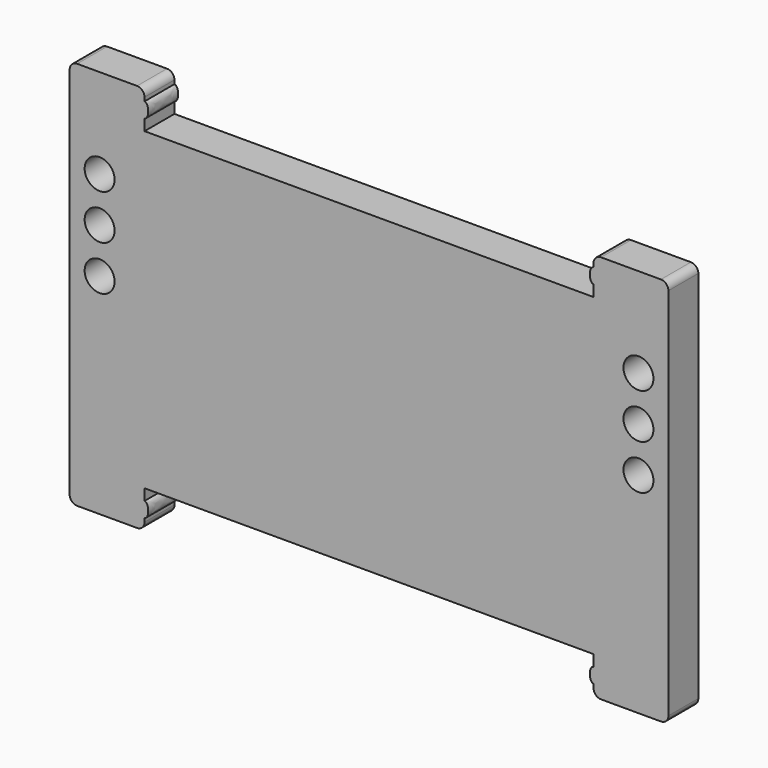
from build123d import *

# Parameters (mm, degrees)
F1_R     = 2
F2_DEPTH = 5
F3_R     = 1


with BuildPart() as f2:
    # F1 (on Front) → F2 (new body)
    with BuildSketch(Plane.XZ):
        Polygon((-37.1288130432, 37.2896080693), (-47.1288130432, 37.2896080693), (-47.1288130432, -4.7103919307), (-37.1288130432, -4.7103919307), (22.8711869568, -4.7103919307), (32.8711869568, -4.7103919307), (32.8711869568, 37.2896080693), (22.8711869568, 37.2896080693), align=None)
        with Locations((-43.1288130432, 18.2896080693)):
            Circle(F1_R, mode=Mode.SUBTRACT)
        with Locations((-43.1288130432, 24.2896080693)):
            Circle(F1_R, mode=Mode.SUBTRACT)
        with Locations((-43.1288130432, 30.2896080693)):
            Circle(F1_R, mode=Mode.SUBTRACT)
        with Locations((28.8711869568, 18.2896080693)):
            Circle(F1_R, mode=Mode.SUBTRACT)
        with Locations((28.8711869568, 24.2896080693)):
            Circle(F1_R, mode=Mode.SUBTRACT)
        with Locations((28.8711869568, 30.2896080693)):
            Circle(F1_R, mode=Mode.SUBTRACT)
        with BuildLine():
            Line((-47.1288130432, 42.2896080693), (-47.1288130432, 37.2896080693))
            Line((-47.1288130432, 37.2896080693), (-37.1288130432, 37.2896080693))
            Line((-37.1288130432, 37.2896080693), (-37.1288130432, 38.7896080693))
            add(Edge.make_bspline(
                [(-37.1288130432, 38.7896080693), (-36.6288130432, 38.7896080693), (-36.6288130432, 39.7896080693), (-36.6288130432, 40.7896080693), (-37.1288130432, 40.7896080693)],
                knots=[3.1415926536, 3.1415926536, 3.1415926536, 4.7123889804, 4.7123889804, 6.2831853072, 6.2831853072, 6.2831853072], degree=2, weights=[1, 0.7071067812, 1, 0.7071067812, 1]))
            Line((-37.1288130432, 40.7896080693), (-37.1288130432, 42.2896080693))
            Line((-37.1288130432, 42.2896080693), (-47.1288130432, 42.2896080693))
        make_face()
        with BuildLine():
            Line((22.8711869568, 38.7896080693), (22.8711869568, 37.2896080693))
            Line((22.8711869568, 37.2896080693), (32.8711869568, 37.2896080693))
            Line((32.8711869568, 37.2896080693), (32.8711869568, 42.2896080693))
            Line((32.8711869568, 42.2896080693), (22.8711869568, 42.2896080693))
            Line((22.8711869568, 42.2896080693), (22.8711869568, 40.7896080693))
            add(Edge.make_bspline(
                [(22.8711869568, 40.7896080693), (22.3711869568, 40.7896080693), (22.3711869568, 39.7896080693), (22.3711869568, 38.7896080693), (22.8711869568, 38.7896080693)],
                knots=[0, 0, 0, 1.5707963268, 1.5707963268, 3.1415926536, 3.1415926536, 3.1415926536], degree=2, weights=[1, 0.7071067812, 1, 0.7071067812, 1]))
        make_face()
        with BuildLine():
            Line((32.8711869568, -4.7103919307), (22.8711869568, -4.7103919307))
            Line((22.8711869568, -4.7103919307), (22.8711869568, -6.2103919307))
            add(Edge.make_bspline(
                [(22.8711869568, -6.2103919307), (22.3711869568, -6.2103919307), (22.3711869568, -7.2103919307), (22.3711869568, -8.2103919307), (22.8711869568, -8.2103919307)],
                knots=[3.1415926536, 3.1415926536, 3.1415926536, 4.7123889804, 4.7123889804, 6.2831853072, 6.2831853072, 6.2831853072], degree=2, weights=[1, 0.7071067812, 1, 0.7071067812, 1]))
            Line((22.8711869568, -8.2103919307), (22.8711869568, -9.7103919307))
            Line((22.8711869568, -9.7103919307), (32.8711869568, -9.7103919307))
            Line((32.8711869568, -9.7103919307), (32.8711869568, -4.7103919307))
        make_face()
        with BuildLine():
            Line((-37.1288130432, -4.7103919307), (-47.1288130432, -4.7103919307))
            Line((-47.1288130432, -4.7103919307), (-47.1288130432, -9.7103919307))
            Line((-47.1288130432, -9.7103919307), (-37.1288130432, -9.7103919307))
            Line((-37.1288130432, -9.7103919307), (-37.1288130432, -8.2103919307))
            add(Edge.make_bspline(
                [(-37.1288130432, -8.2103919307), (-36.6288130432, -8.2103919307), (-36.6288130432, -7.2103919307), (-36.6288130432, -6.2103919307), (-37.1288130432, -6.2103919307)],
                knots=[0, 0, 0, 1.5707963268, 1.5707963268, 3.1415926536, 3.1415926536, 3.1415926536], degree=2, weights=[1, 0.7071067812, 1, 0.7071067812, 1]))
            Line((-37.1288130432, -6.2103919307), (-37.1288130432, -4.7103919307))
        make_face()
    extrude(amount=F2_DEPTH)

    # F3
    f3_edges = [f2.edges().sort_by_distance(p)[0] for p in [
        (-47.128813, -2.5, 42.289608),
        (-37.128813, -2.5, 42.289608),
        (22.871187, -2.5, 42.289608),
        (32.871187, -2.5, 42.289608),
        (22.871187, -2.5, -9.710392),
        (32.871187, -2.5, -9.710392),
        (-47.128813, -2.5, -9.710392),
        (-37.128813, -2.5, -9.710392),
    ]]
    fillet(f3_edges, radius=F3_R)


solid = f2.part
